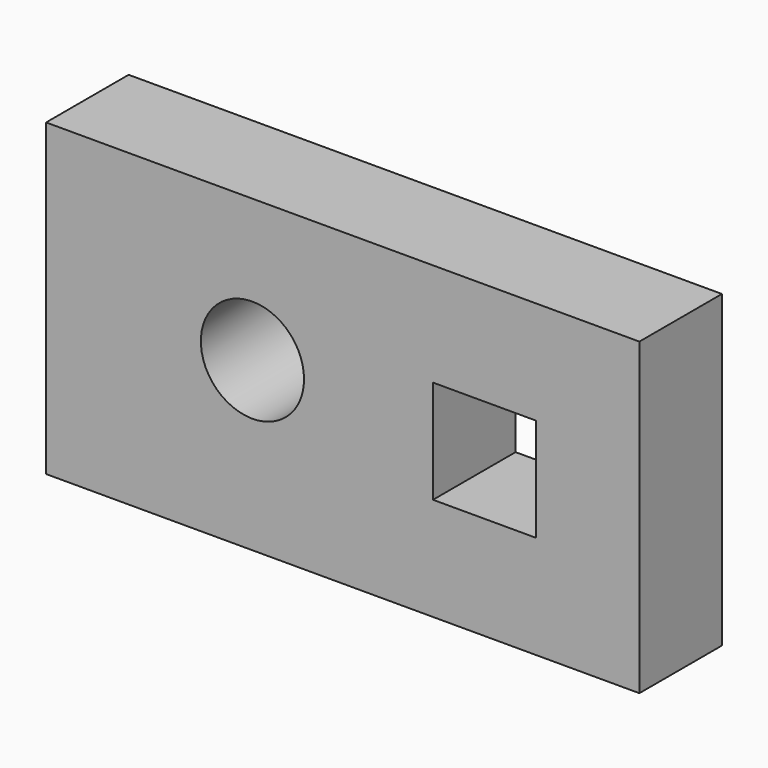
from build123d import *

# Parameters (mm, degrees)
F0_W     = 146.05
F0_H     = 76.2
F1_DEPTH = 25.4
F3_R     = 12.7
F3_W     = 25.4
F3_H     = 25.4
F4_DEPTH = 25.4


with BuildPart() as f1:
    # F0 (on Front) → F1 (new body)
    with BuildSketch(Plane.XZ):
        with Locations((-73.025, 57.004511)):
            Rectangle(F0_W, F0_H)
    extrude(amount=F1_DEPTH)

    # F3 (on face) → F4 (cut)
    with BuildSketch(Plane.XZ.offset(25.4)):
        with Locations((-95.25, 60.107693)):
            Circle(F3_R)
        with Locations((-38.1, 57.004511)):
            Rectangle(F3_W, F3_H)
    extrude(amount=-F4_DEPTH, mode=Mode.SUBTRACT)


solid = f1.part
